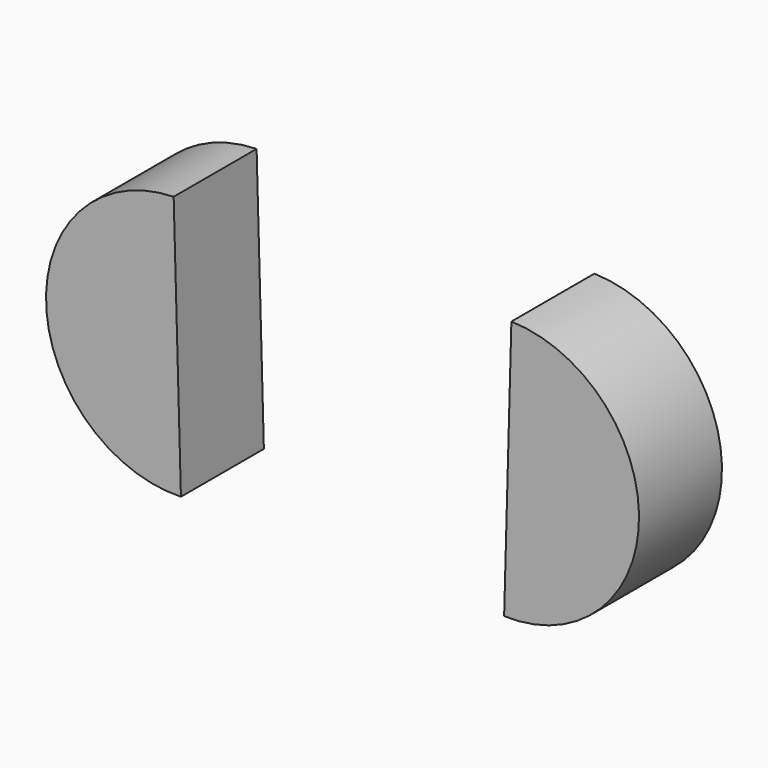
from build123d import *

# Parameters (mm, degrees)
F1_DEPTH = 25.4


with BuildPart() as f1:
    # F0 (on Front) → F1 (new body)
    with BuildSketch(Plane.XZ):
        with BuildLine():
            Line((-39.587428, -32.062704), (-41.367188, 32.067213))
            ThreePointArc((-41.367188, 32.067213), (-72.623612, -0.889883), (-39.587428, -32.062704))
        make_face()
        with BuildLine():
            ThreePointArc((39.587428, -32.062704), (72.623612, -0.889883), (41.367188, 32.067213))
            Line((41.367188, 32.067213), (39.587428, -32.062704))
        make_face()
    extrude(amount=F1_DEPTH)


solid = f1.part
